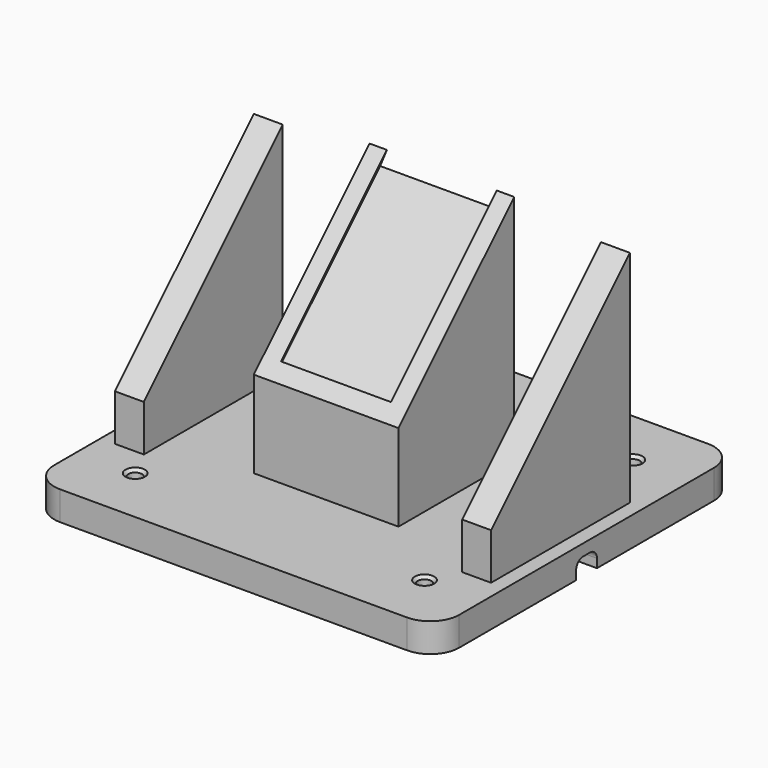
from build123d import *

# Parameters (mm, degrees)
SKETCH_W        = 140
SKETCH_H        = 130
SKETCH_R        = 2.35
PAD_DEPTH       = 10
SKETCH001_W     = 50
SKETCH001_H     = 50
PAD001_DEPTH    = 30
PAD002_DEPTH    = 50
FILLET_R        = 10
CHAMFER_SIZE    = 1
SKETCH003_W     = 38
SKETCH003_H     = 64.710678
POCKET_DEPTH    = 4
POCKET_TAPER    = -30
PAD003_DEPTH    = 10
SKETCH005_W     = 60
SKETCH005_H     = 9
POCKET001_DEPTH = 6
FILLET001_R     = 3


with BuildPart() as part:
    # Sketch → Pad (new body)
    with BuildSketch(Plane.XY):
        Rectangle(SKETCH_W, SKETCH_H)
        with Locations((-50, 45)):
            Circle(SKETCH_R, mode=Mode.SUBTRACT)
        with Locations((50, 45)):
            Circle(SKETCH_R, mode=Mode.SUBTRACT)
        with Locations((-50, -45)):
            Circle(SKETCH_R, mode=Mode.SUBTRACT)
        with Locations((50, -45)):
            Circle(SKETCH_R, mode=Mode.SUBTRACT)
    extrude(amount=PAD_DEPTH)

    # Sketch001 (on Face10 of Pad) → Pad001 (join)
    with BuildSketch(Plane.XY.offset(10)):
        Rectangle(SKETCH001_W, SKETCH001_H)
    extrude(amount=PAD001_DEPTH)

    # Sketch002 (on DatumPlane) → Pad002 (join)
    with BuildSketch(Plane.YZ.offset(25)):
        Polygon((-25, 40), (25, 90), (25, 40), align=None)
    extrude(amount=-PAD002_DEPTH)

    # Fillet
    fillet_edges = [part.edges().sort_by_distance(p)[0] for p in [
        (70, -65, 5),
        (70, 65, 5),
        (-70, -65, 5),
        (-70, 65, 5),
    ]]
    fillet(fillet_edges, radius=FILLET_R)

    # Chamfer
    chamfer_edges = [part.edges().sort_by_distance(p)[0] for p in [
        (-52.35, -45, 10),
        (47.65, -45, 10),
        (47.65, 45, 10),
        (-52.35, 45, 10),
    ]]
    chamfer(chamfer_edges, length=CHAMFER_SIZE)

    # Sketch003 (on Face21 of Chamfer) → Pocket (cut)
    with BuildSketch(Plane(origin=(0, -32.5, 32.5), x_dir=(1, 0, 0), z_dir=(0, -0.707107, 0.707107))):
        with Locations((0, 48.961941)):
            Rectangle(SKETCH003_W, SKETCH003_H)
    extrude(amount=-POCKET_DEPTH, taper=POCKET_TAPER, mode=Mode.SUBTRACT)

    # Sketch004 → Pad003 (join)
    with BuildSketch(Plane.YZ.offset(-65)):
        Polygon((-35, 10), (-35, 26), (25, 86), (25, 10), align=None)
    pad003 = extrude(amount=PAD003_DEPTH)

    # Mirrored: Pad003 across YZ
    add(pad003.mirror(Plane.YZ))

    # Sketch005 → Pocket001 (cut)
    with BuildSketch(Plane.XY):
        with Locations((40, 0)):
            Rectangle(SKETCH005_W, SKETCH005_H)
    extrude(amount=POCKET001_DEPTH, mode=Mode.SUBTRACT)

    # Fillet001
    fillet001_edges = [part.edges().sort_by_distance(p)[0] for p in [
        (40, 4.5, 6),
        (40, -4.5, 6),
    ]]
    fillet(fillet001_edges, radius=FILLET001_R)


solid = part.part
